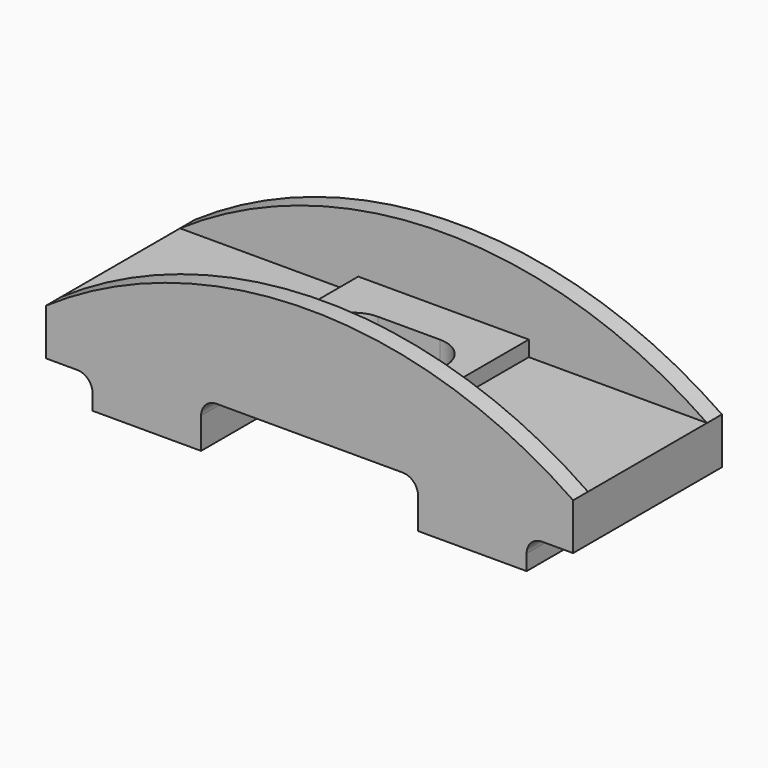
from build123d import *

# Parameters (mm, degrees)
F0_W      = 170
F0_H      = 60
F1_DEPTH  = 25
F2_W      = 55
F2_H      = 48
F3_DEPTH  = 5
F4_DEPTH  = 25.001
F7_DEPTH  = 6
F8_DEPTH  = 6
F10_DEPTH = 60.001
F12_DEPTH = 60.001


with BuildPart() as f1:
    # F0 (on Top) → F1 (new body)
    with BuildSketch(Plane.XY):
        Rectangle(F0_W, F0_H)
    extrude(amount=-F1_DEPTH)

    # F2 (on face) → F3 (join)
    with BuildSketch(Plane.XY):
        Rectangle(F2_W, F2_H)
        with BuildLine():
            ThreePointArc((20, 0), (17.0710678119, -7.0710678119), (10, -10))
            Line((10, -10), (-10, -10))
            ThreePointArc((-10, -10), (-20, 0), (-10, 10))
            Line((-10, 10), (10, 10))
            ThreePointArc((10, 10), (17.0710678119, 7.0710678119), (20, 0))
        make_face(mode=Mode.SUBTRACT)
    extrude(amount=F3_DEPTH)

    # F4 (cut, through all): a face of the model
    f4_faces = [f1.faces().sort_by_distance(p)[0] for p in [
        (0, 0, 0),
    ]]
    extrude(f4_faces, amount=-F4_DEPTH, mode=Mode.SUBTRACT)

    # F6 (on face) → F7 (join)
    with BuildSketch(Plane(origin=(0, 30, 0), x_dir=(-1, 0, 0), z_dir=(0, 1, 0))):
        with BuildLine():
            Line((-85, 0), (85, 0))
            ThreePointArc((85, 0), (0, 26.4079290569), (-85, 0))
        make_face()
    extrude(amount=-F7_DEPTH)

    # F5 (on face) → F8 (join)
    with BuildSketch(Plane.XZ.offset(30)):
        with BuildLine():
            Line((-85, 0), (85, 0))
            ThreePointArc((85, 0), (0, 26.4079290569), (-85, 0))
        make_face()
    extrude(amount=-F8_DEPTH)

    # F9 (on face) → F10 (cut, through all)
    with BuildSketch(Plane.XZ.offset(30)):
        with BuildLine():
            Line((-35, -25), (0, -25))
            Line((0, -25), (35, -25))
            Line((35, -25), (35, -15))
            ThreePointArc((35, -15), (33.5355339059, -11.4644660941), (30, -10))
            Line((30, -10), (-30, -10))
            ThreePointArc((-30, -10), (-33.5355339059, -11.4644660941), (-35, -15))
            Line((-35, -15), (-35, -25))
        make_face()
    extrude(amount=-F10_DEPTH, mode=Mode.SUBTRACT)

    # F11 (on face) → F12 (cut, through all)
    with BuildSketch(Plane.XZ.offset(30)):
        with BuildLine():
            Line((-85, -15), (-85, -25))
            Line((-85, -25), (-70, -25))
            Line((-70, -25), (-70, -20))
            ThreePointArc((-70, -20), (-71.4644660941, -16.4644660941), (-75, -15))
            Line((-75, -15), (-85, -15))
        make_face()
        with BuildLine():
            Line((85, -25), (85, -15))
            Line((85, -15), (75, -15))
            ThreePointArc((75, -15), (71.4644660941, -16.4644660941), (70, -20))
            Line((70, -20), (70, -25))
            Line((70, -25), (85, -25))
        make_face()
    extrude(amount=-F12_DEPTH, mode=Mode.SUBTRACT)


solid = f1.part
